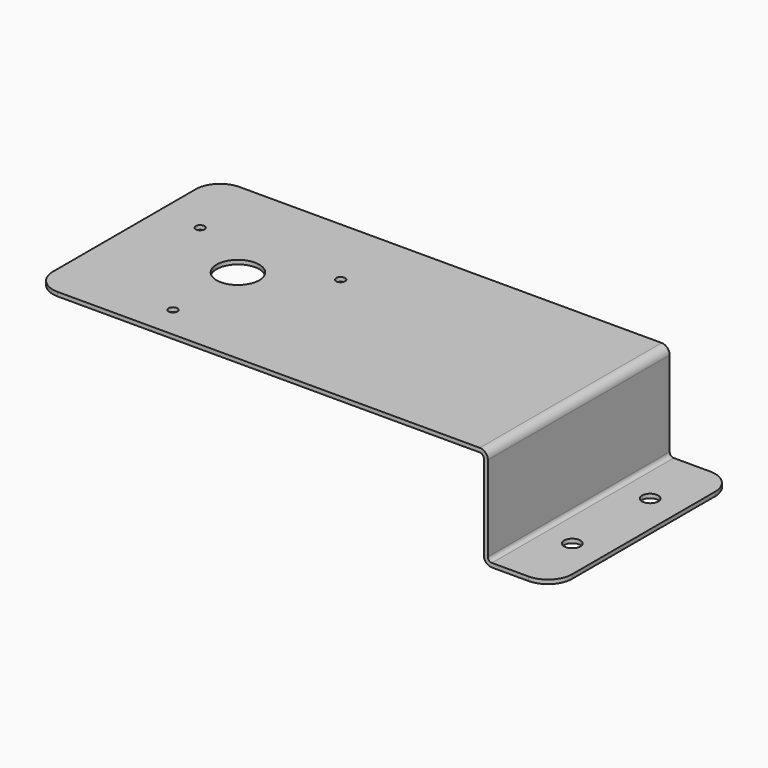
from build123d import *

# Parameters (mm, degrees)
F1_DEPTH = 44.45
F2_R     = 8.334375
F2_R_2   = 3.175
F2_R_3   = 1.7526
F3_DEPTH = 39.6885
F4_R     = 9.525


with BuildPart() as f1:
    # F0 (on Front) → F1 (new body, symmetric)
    with BuildSketch(Plane.XZ):
        with BuildLine():
            Line((-176.2125, 0), (-1.5875, 0))
            ThreePointArc((-1.5875, 0), (-0.464968, -0.464968), (0, -1.5875))
            Line((0, -1.5875), (0, -34.925))
            ThreePointArc((0, -34.925), (0.929936, -37.170064), (3.175, -38.1))
            Line((3.175, -38.1), (26.9875, -38.1))
            Line((26.9875, -38.1), (26.9875, -36.5125))
            Line((26.9875, -36.5125), (3.175, -36.5125))
            ThreePointArc((3.175, -36.5125), (2.052468, -36.047532), (1.5875, -34.925))
            Line((1.5875, -34.925), (1.5875, -1.5875))
            ThreePointArc((1.5875, -1.5875), (0.657564, 0.657564), (-1.5875, 1.5875))
            Line((-1.5875, 1.5875), (-176.2125, 1.5875))
            Line((-176.2125, 1.5875), (-176.2125, 0))
        make_face()
    extrude(amount=F1_DEPTH, both=True)

    # F2 (on face) → F3 (cut, through all)
    with BuildSketch(Plane.XY.offset(1.5875)):
        with Locations((-131.7625, 0)):
            Circle(F2_R)
        with Locations((14.2875, 19.05)):
            Circle(F2_R_2)
        with Locations((14.2875, -19.05)):
            Circle(F2_R_2)
        with Locations((-131.7625, -31.75)):
            Circle(F2_R_3)
        with Locations((-104.266193, 15.875)):
            Circle(F2_R_3)
        with Locations((-159.258807, 15.875)):
            Circle(F2_R_3)
    extrude(amount=-F3_DEPTH, mode=Mode.SUBTRACT)

    # F4
    f4_edges = [f1.edges().sort_by_distance(p)[0] for p in [
        (-176.2125, -44.45, 0.79375),
        (-176.2125, 44.45, 0.79375),
        (26.9875, 44.45, -37.30625),
        (26.9875, -44.45, -37.30625),
    ]]
    fillet(f4_edges, radius=F4_R)


solid = f1.part
